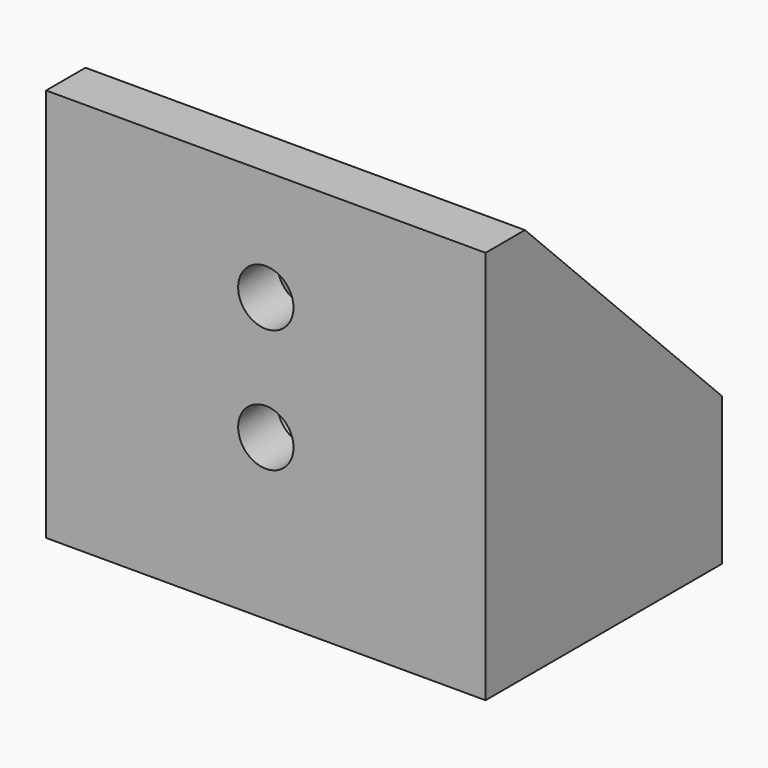
from build123d import *

# Parameters (mm, degrees)
F0_W     = 35.7
F0_H     = 24
F0_R     = 2.5
F1_DEPTH = 4
F3_DEPTH = 28
F4_SIZE  = 20
F5_R     = 2.25
F6_DEPTH = 4


with BuildPart() as f1:
    # F0 (on Top) → F1 (new body)
    with BuildSketch(Plane.XY):
        with Locations((17.85, 12)):
            Rectangle(F0_W, F0_H)
        with Locations((9, 12)):
            Circle(F0_R, mode=Mode.SUBTRACT)
        with Locations((26.7, 12)):
            Circle(F0_R, mode=Mode.SUBTRACT)
    extrude(amount=F1_DEPTH)

    # F2 (on face) → F3 (join)
    with BuildSketch(Plane.XY.offset(4)):
        Polygon((31.7, 4), (4, 4), (4, 20), (4, 24), (0, 24), (0, 0), (35.7, 0), (35.7, 24), (31.7, 24), (31.7, 20), align=None)
    extrude(amount=F3_DEPTH)

    # F4
    f4_edges = [f1.edges().sort_by_distance(p)[0] for p in [
        (33.7, 24, 32),
        (2, 24, 32),
    ]]
    chamfer(f4_edges, length=F4_SIZE)

    # F5 (on face) → F6 (cut)
    with BuildSketch(Plane(origin=(0, 4, 0), x_dir=(-1, 0, 0), z_dir=(0, 1, 0))):
        with Locations((-17.85, 23)):
            Circle(F5_R)
        with Locations((-17.85, 13)):
            Circle(F5_R)
    extrude(amount=-F6_DEPTH, mode=Mode.SUBTRACT)


solid = f1.part
